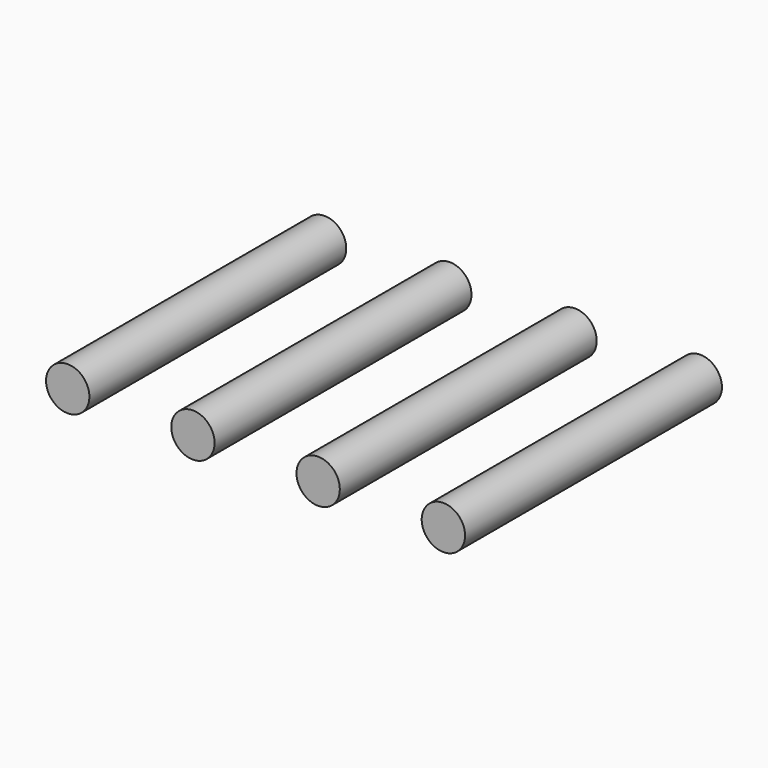
from build123d import *

# Parameters (mm, degrees)
F0_R          = 6.75
F1_DEPTH      = 50
F1_DEPTH_BACK = 50


with BuildPart() as f1:
    # F0 (on Front) → F1 (new body, two sides)
    with BuildSketch(Plane.XZ) as f1_sk:
        Circle(F0_R)
        with Locations((39, 0)):
            Circle(F0_R)
        with Locations((-39, 0)):
            Circle(F0_R)
        with Locations((78, 0)):
            Circle(F0_R)
    extrude(amount=F1_DEPTH)
    extrude(f1_sk.sketch, amount=-F1_DEPTH_BACK)


solid = f1.part
